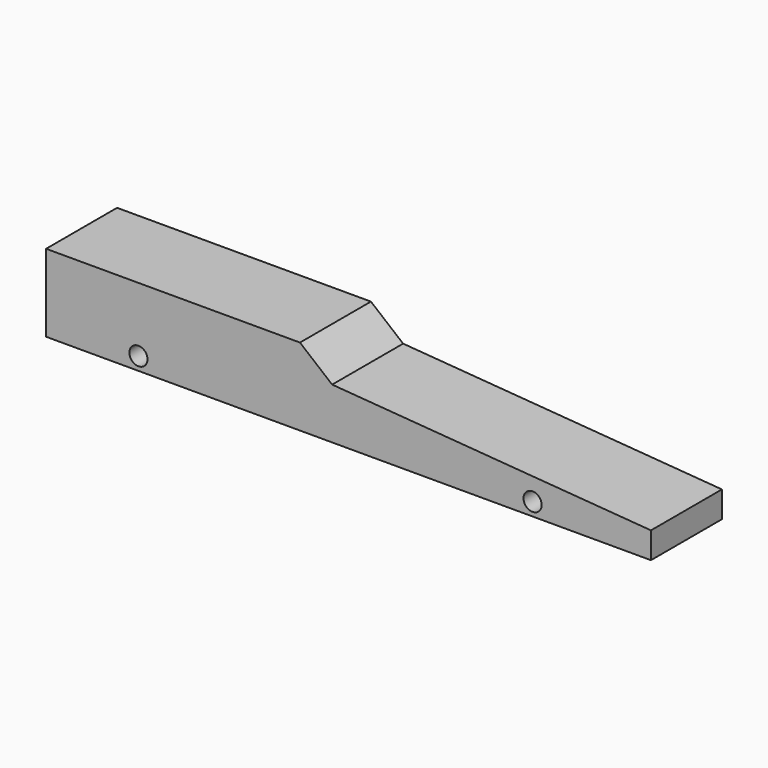
from build123d import *

# Parameters (mm, degrees)
F0_W      = 150
F0_H      = 20
F1_DEPTH  = 40
F2_R      = 5
F3_DEPTH  = 65
F4_W      = 150
F4_H      = 5
F5_DEPTH  = 20.001
F6_R      = 5
F7_DEPTH  = 55
F9_DEPTH  = 30.001
F10_W     = 4
F10_H     = 19.2120939866
F11_DEPTH = 150.001
F12_R     = 2.25
F13_DEPTH = 22.001


with BuildPart() as f1:
    # F0 (on Front) → F1 (new body)
    with BuildSketch(Plane.XZ):
        with Locations((-9.199729269, -22.2991868854)):
            Rectangle(F0_W, F0_H)
    extrude(amount=F1_DEPTH)

    # F2 (on face) → F3 (cut)
    with BuildSketch(Plane(origin=(-84.199729269, 0, 0), x_dir=(0, -1, 0), z_dir=(-1, 0, 0))):
        with Locations((20, 2.7008131146)):
            Circle(F2_R)
    extrude(amount=-F3_DEPTH, mode=Mode.SUBTRACT)

    # F4 (on face) → F5 (cut, through all)
    with BuildSketch(Plane.XY.offset(-12.2991868854)):
        with Locations((-9.199729269, -2.5)):
            Rectangle(F4_W, F4_H)
        with Locations((-9.199729269, -37.5)):
            Rectangle(F4_W, F4_H)
    extrude(amount=-F5_DEPTH, mode=Mode.SUBTRACT)

    # F6 (on face) → F7 (cut)
    with BuildSketch(Plane(origin=(-84.199729269, 0, 0), x_dir=(0, -1, 0), z_dir=(-1, 0, 0))):
        with Locations((20.0377495284, -20.2992462616)):
            Circle(F6_R)
    extrude(amount=-F7_DEPTH, mode=Mode.SUBTRACT)

    # F8 (on face) → F9 (cut, through all)
    with BuildSketch(Plane(origin=(0, -5, 0), x_dir=(-1, 0, 0), z_dir=(0, 1, 0))):
        Polygon((21.2375794259, -13.0870928988), (84.199729269, -13.0870928988), (84.199729269, -12.2991868854), (-65.800270731, -12.2991868854), (-65.800270731, -25.7824789733), (13.2570136338, -19.6707472205), align=None)
    extrude(amount=-F9_DEPTH, mode=Mode.SUBTRACT)

    # F10 (on face) → F11 (cut, through all)
    with BuildSketch(Plane(origin=(-84.199729269, 0, 0), x_dir=(0, -1, 0), z_dir=(-1, 0, 0))):
        with Locations((7, -22.6931398921)):
            Rectangle(F10_W, F10_H)
        with Locations((33, -22.6931398921)):
            Rectangle(F10_W, F10_H)
    extrude(amount=-F11_DEPTH, mode=Mode.SUBTRACT)

    # F12 (on face) → F13 (cut, through all)
    with BuildSketch(Plane(origin=(0, -9, 0), x_dir=(-1, 0, 0), z_dir=(0, 1, 0))):
        with Locations((-36.4439859986, -29.0491868854)):
            Circle(F12_R)
        with Locations((61.297416687, -29.0491868854)):
            Circle(F12_R)
    extrude(amount=-F13_DEPTH, mode=Mode.SUBTRACT)


solid = f1.part
